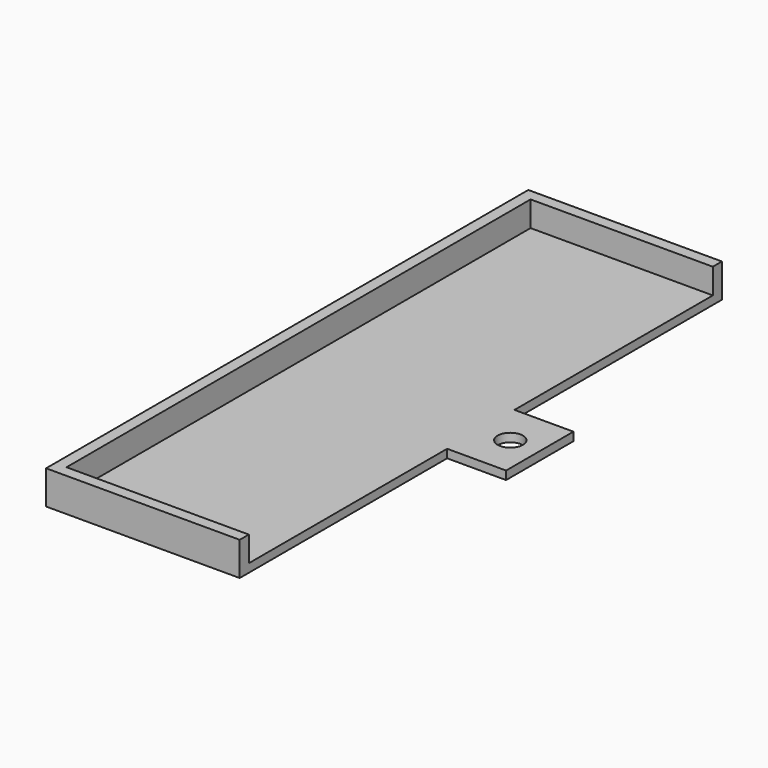
from build123d import *

# Parameters (mm, degrees)
F1_DEPTH = 4
F0_R     = 1.5
F2_DEPTH = 1


with BuildPart() as f1:
    # F0 (on Top) → F1 (new body)
    with BuildSketch(Plane.XY):
        Polygon((11.5, 35.8), (-11.5, 35.8), (-11.5, -35.8), (11.5, -35.8), (11.5, -34.45), (-10.15, -34.45), (-10.15, 34.45), (11.5, 34.45), align=None)
    extrude(amount=F1_DEPTH)

    # F0 (on Top) → F2 (join)
    with BuildSketch(Plane.XY):
        Polygon((11.5, 5), (11.5, 34.45), (-10.15, 34.45), (-10.15, -34.45), (11.5, -34.45), (11.5, -5), (18.5, -5), (18.5, 5), align=None)
        with Locations((15, 0)):
            Circle(F0_R, mode=Mode.SUBTRACT)
    extrude(amount=F2_DEPTH)


solid = f1.part
